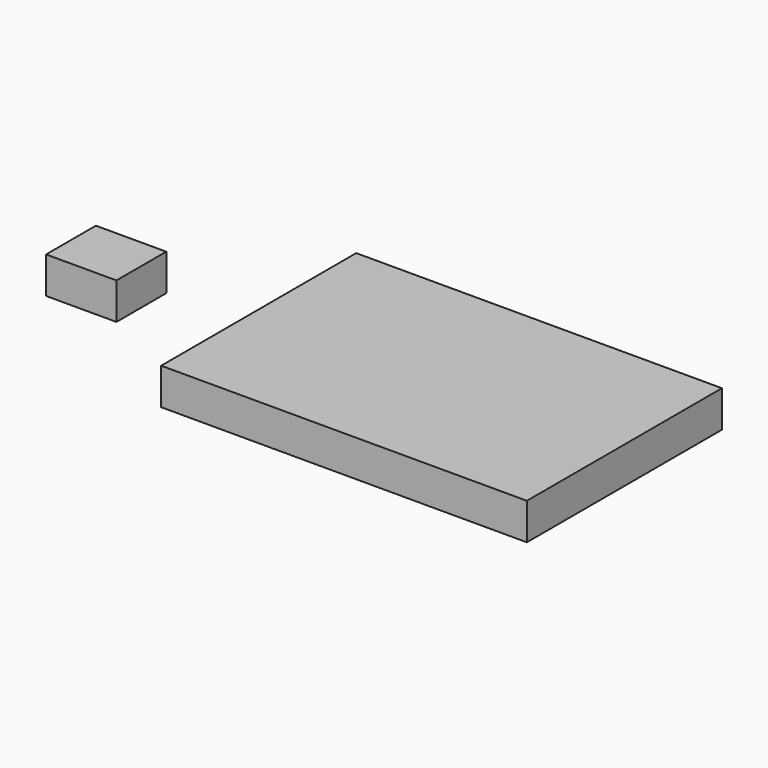
from build123d import *

# Parameters (mm, degrees)
F0_W     = 6000
F0_H     = 4000
F0_W_2   = 1154.569143
F0_H_2   = 1021.349072
F1_DEPTH = 600


with BuildPart() as f1:
    # F0 (on Top) → F1 (new body)
    with BuildSketch(Plane.XY):
        Rectangle(F0_W, F0_H)
        with Locations((-5502.474724, 0)):
            Rectangle(F0_W_2, F0_H_2)
    extrude(amount=F1_DEPTH)


solid = f1.part
